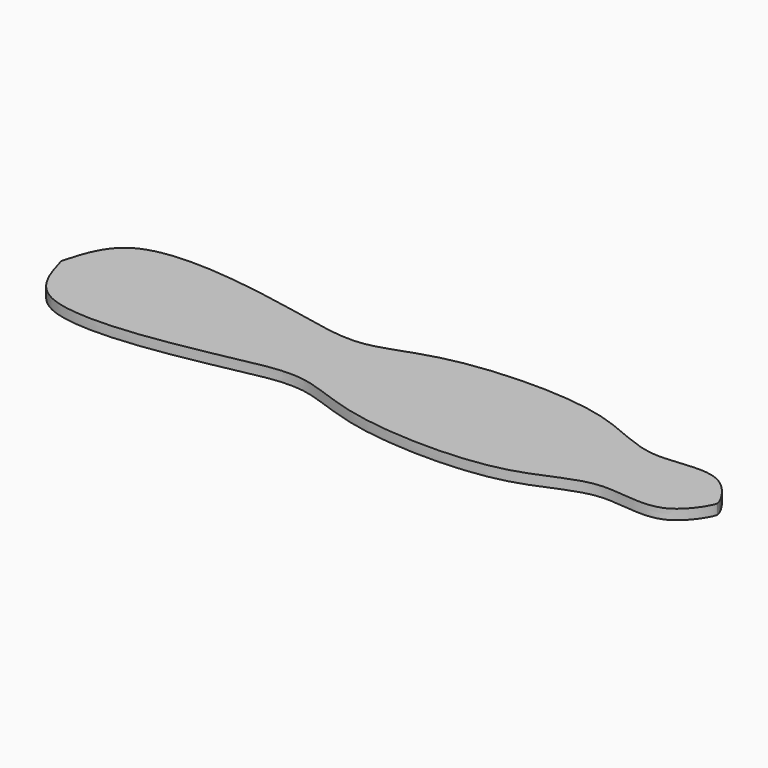
from build123d import *

# Parameters (mm, degrees)
F1_DEPTH = 2.54


with BuildPart() as f1:
    # F0 (on Top) → F1 (new body)
    with BuildSketch(Plane.XY):
        with BuildLine():
            add(Edge.make_bspline(
                [(-68.7753856182, 0), (-67.2815131465, 5.2614996116), (-63.6944055368, 17.8954865492), (-30.1184165099, 14.4592603541), (-12.2742564489, 10.1458156086), (0.760853565, 8.395976301), (16.730894182, 16.8891278707), (55.630415906, 17.8596654578), (72.2184559689, 5.5281661183), (90.413988205, 12.2138391639), (96.5857771369, 0.5928445142), (96.3246151805, 0)],
                knots=[0, 0, 0, 0, 0.0981493246, 0.2356775401, 0.3469283121, 0.4320939854, 0.537679876, 0.69161471, 0.8035998816, 0.905813296, 0.9843300203, 0.9843300203, 0.9843300203, 0.9843300203], degree=3))
            Line((-68.7753856182, 0), (95.9338545799, 0))
            Line((95.9338545799, 0), (96.3246151805, 0))
        make_face()
    extrude(amount=F1_DEPTH)

    # F2: F1 across plane


with BuildPart() as f1_1:
    add(f1.part)
    add(f1.part.mirror(Plane.XZ))


solid = f1_1.part
